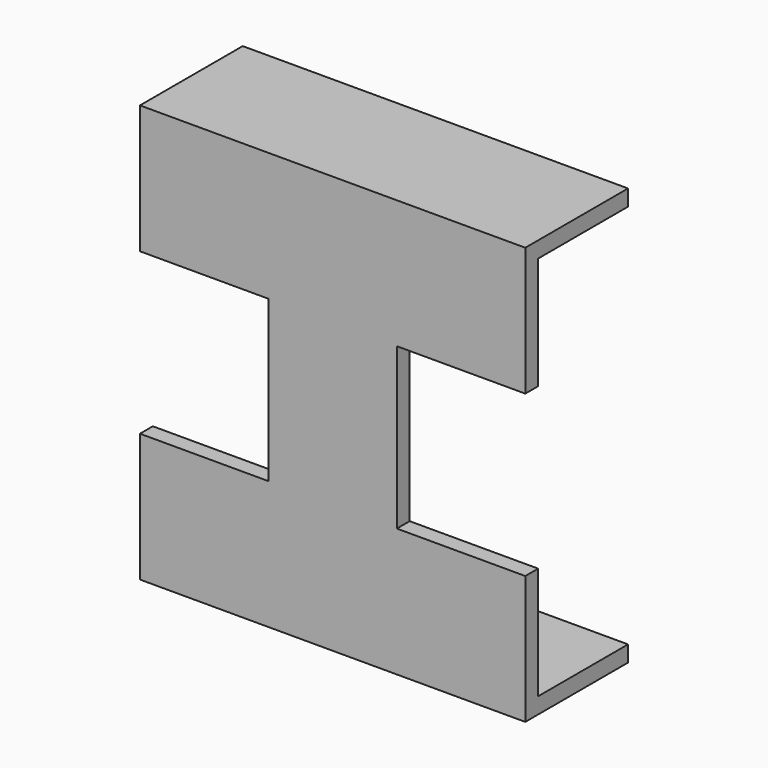
from build123d import *

# Parameters (mm, degrees)
F0_W      = 40
F0_H      = 5
F1_DEPTH  = 120
F2_W      = 20
F2_H      = 5
F3_DEPTH  = 120
F4_W      = 120
F4_H      = 40
F5_DEPTH  = 5
F6_W      = 40
F6_H      = 5
F7_DEPTH  = 35
F8_W      = 40
F8_H      = 5
F9_DEPTH  = 35
F10_W     = 40
F10_H     = 5
F11_DEPTH = 35
F12_W     = 40
F12_H     = 5
F13_DEPTH = 35


with BuildPart() as f1:
    # F0 (on Right) → F1 (new body)
    with BuildSketch(Plane.YZ):
        with Locations((-7.7903409343, -32.0171793364)):
            Rectangle(F0_W, F0_H)
    extrude(amount=F1_DEPTH)

    # F2 (on face) → F3 (join)
    with BuildSketch(Plane.XY.offset(-29.5171793364)):
        Polygon((45, 12.2096590657), (40, 12.2096590657), (40, -27.7903409343), (60, -27.7903409343), (60, -22.7903409343), (45, -22.7903409343), align=None)
        with Locations((70, -25.2903409343)):
            Rectangle(F2_W, F2_H)
    extrude(amount=F3_DEPTH)

    # F4 (on face) → F5 (join)
    with BuildSketch(Plane.XY.offset(90.4828206636)):
        with Locations((60, -7.7903409343)):
            Rectangle(F4_W, F4_H)
    extrude(amount=F5_DEPTH)

    # F6 (on face) → F7 (join)
    with BuildSketch(Plane.XY.offset(-29.5171793364)):
        with Locations((20, -25.2903409343)):
            Rectangle(F6_W, F6_H)
        with Locations((20, -25.2903409343)):
            Rectangle(F6_W, F6_H)
    extrude(amount=F7_DEPTH)

    # F8 (on face) → F9 (join)
    with BuildSketch(Plane.XY.offset(-29.5171793364)):
        with Locations((100, -25.2903409343)):
            Rectangle(F8_W, F8_H)
    extrude(amount=F9_DEPTH)

    # F10 (on face) → F11 (join)
    with BuildSketch(Plane(origin=(0, 0, 90.4828206636), x_dir=(1, 0, 0), z_dir=(0, 0, -1))):
        with Locations((20, 25.2903409343)):
            Rectangle(F10_W, F10_H)
    extrude(amount=F11_DEPTH)

    # F12 (on face) → F13 (join)
    with BuildSketch(Plane(origin=(0, 0, 90.4828206636), x_dir=(1, 0, 0), z_dir=(0, 0, -1))):
        with Locations((100, 25.2903409343)):
            Rectangle(F12_W, F12_H)
    extrude(amount=F13_DEPTH)


solid = f1.part
